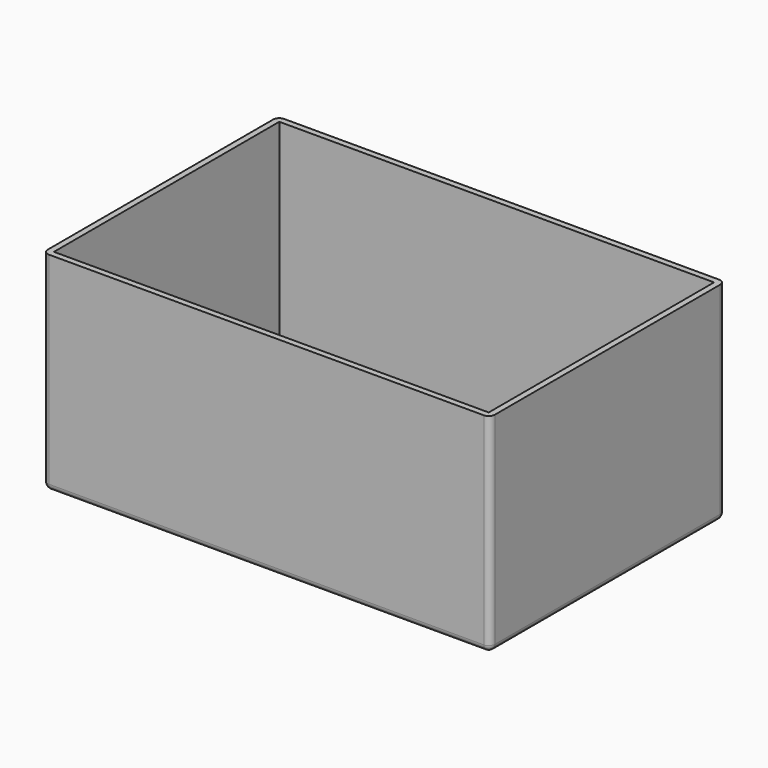
from build123d import *

# Parameters (mm, degrees)
SKETCH_W    = 71
SKETCH_H    = 46
PAD_DEPTH   = 33
THICKNESS_T = 1


with BuildPart() as part:
    # Sketch → Pad (new body)
    with BuildSketch(Plane.XY):
        with Locations((35.5, 23)):
            Rectangle(SKETCH_W, SKETCH_H)
    extrude(amount=PAD_DEPTH)

    # Thickness
    thickness_openings = [part.faces().sort_by_distance(p)[0] for p in [
        (35.5, 23, 33),
    ]]
    offset(amount=THICKNESS_T, openings=thickness_openings)


solid = part.part
